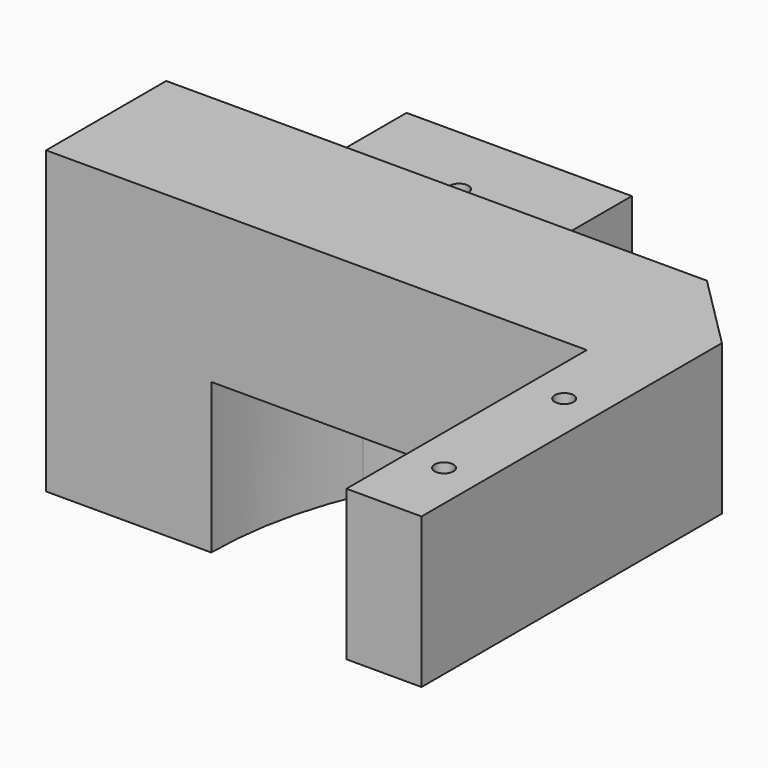
from build123d import *

# Parameters (mm, degrees)
F0_W     = 26.67
F0_H     = 12.7
F1_DEPTH = 12.7
F2_DEPTH = 12.7
F3_SIZE  = 6.35
F4_R     = 0.79375
F5_DEPTH = 25.401
F6_R     = 0.79375
F7_DEPTH = 12.701


with BuildPart() as f1:
    # F0 (on Top) → F1 (new body)
    with BuildSketch(Plane.XY):
        with Locations((32.385, 6.35)):
            Rectangle(F0_W, F0_H)
        with BuildLine():
            ThreePointArc((13.97, 0), (14.639725, 6.486831), (16.620644, 12.7))
            Line((16.620644, 12.7), (0, 12.7))
            Line((0, 12.7), (0, 0))
            Line((0, 0), (13.97, 0))
        make_face()
        Polygon((52.07, 12.7), (45.72, 12.7), (45.72, 0), (45.72, -25.4), (52.07, -25.4), (52.07, 0), align=None)
        with BuildLine():
            Line((19.05, 0), (19.05, 12.7))
            Line((19.05, 12.7), (16.620644, 12.7))
            ThreePointArc((16.620644, 12.7), (14.639725, 6.486831), (13.97, 0))
            Line((13.97, 0), (19.05, 0))
        make_face()
    extrude(amount=F1_DEPTH)

    # F0 (on Top) → F2 (join)
    with BuildSketch(Plane.XY):
        with BuildLine():
            ThreePointArc((13.97, 0), (14.639725, 6.486831), (16.620644, 12.7))
            Line((16.620644, 12.7), (0, 12.7))
            Line((0, 12.7), (0, 0))
            Line((0, 0), (13.97, 0))
        make_face()
        with BuildLine():
            Line((0, 12.7), (16.620644, 12.7))
            ThreePointArc((16.620644, 12.7), (17.7436, 15.012779), (19.05, 17.227118))
            Line((19.05, 17.227118), (19.05, 38.1))
            Line((19.05, 38.1), (0, 38.1))
            Line((0, 38.1), (0, 12.7))
        make_face()
    extrude(amount=-F2_DEPTH)

    # F3
    f3_edges = [f1.edges().sort_by_distance(p)[0] for p in [
        (52.07, 12.7, 6.35),
    ]]
    chamfer(f3_edges, length=F3_SIZE)

    # F4 (on face) → F5 (cut, through all)
    with BuildSketch(Plane.XY.offset(12.7)):
        with Locations((48.895, -6.35)):
            Circle(F4_R)
        with Locations((48.895, -19.05)):
            Circle(F4_R)
    extrude(amount=-F5_DEPTH, mode=Mode.SUBTRACT)

    # F6 (on face) → F7 (cut, through all)
    with BuildSketch(Plane.XY):
        with Locations((9.525, 31.75)):
            Circle(F6_R)
        with Locations((9.712074, 22.225)):
            Circle(F6_R)
    extrude(amount=-F7_DEPTH, mode=Mode.SUBTRACT)


solid = f1.part
